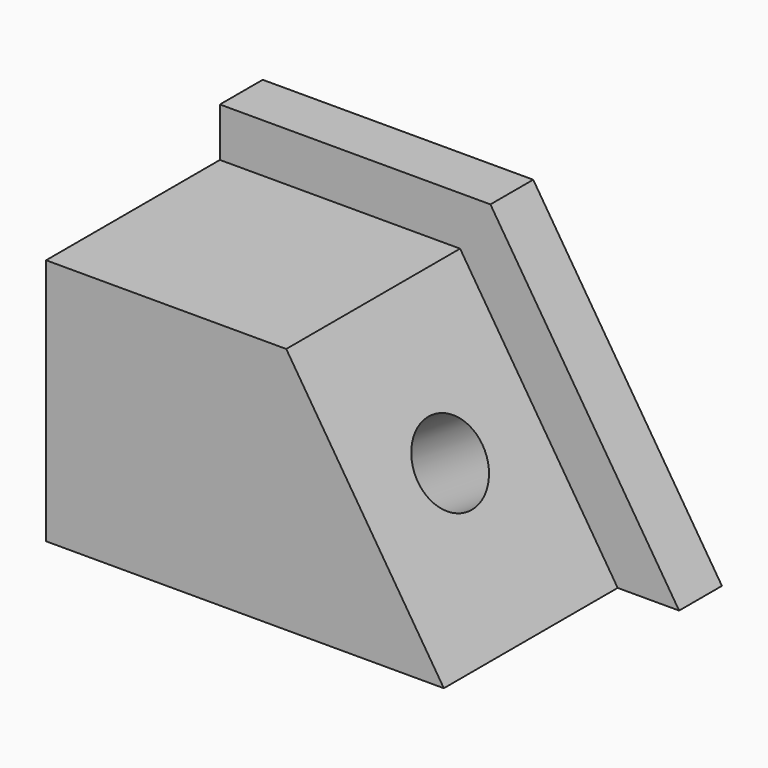
from build123d import *

# Parameters (mm, degrees)
F1_DEPTH = 61.722
F2_DEPTH = 12.192
F3_R     = 9.1987347471
F4_DEPTH = 76.4727140636


with BuildPart() as f1:
    # F0 (on Front) → F1 (new body)
    with BuildSketch(Plane.XZ):
        Polygon((-21.5064492077, 56.3980266452), (-76.2501358986, 56.3980266452), (-76.2501358986, 0), (-21.5064492077, 0), (-14.5882889628, 0), (14.417463594, 0), align=None)
    extrude(amount=F1_DEPTH)

    # F0 (on Front) → F2 (join)
    with BuildSketch(Plane.XZ):
        Polygon((-14.5882889628, 67.5272345543), (-76.2501358986, 67.5272345543), (-76.2501358986, 56.3980266452), (-21.5064492077, 56.3980266452), (14.417463594, 0), (28.4246075898, 0), align=None)
        Polygon((-21.5064492077, 56.3980266452), (-76.2501358986, 56.3980266452), (-76.2501358986, 0), (-21.5064492077, 0), (-14.5882889628, 0), (14.417463594, 0), align=None)
    extrude(amount=F2_DEPTH)

    # F3 (on face) → F4 (cut, through all)
    with BuildSketch(Plane(origin=(10.2561951973, 0, 6.5328998878), x_dir=(0, 1, 0), z_dir=(0.8434293451, 0, 0.5372401137))):
        with Locations((-36.8216447532, 26.6688428819)):
            Circle(F3_R)
    extrude(amount=-F4_DEPTH, mode=Mode.SUBTRACT)


solid = f1.part
